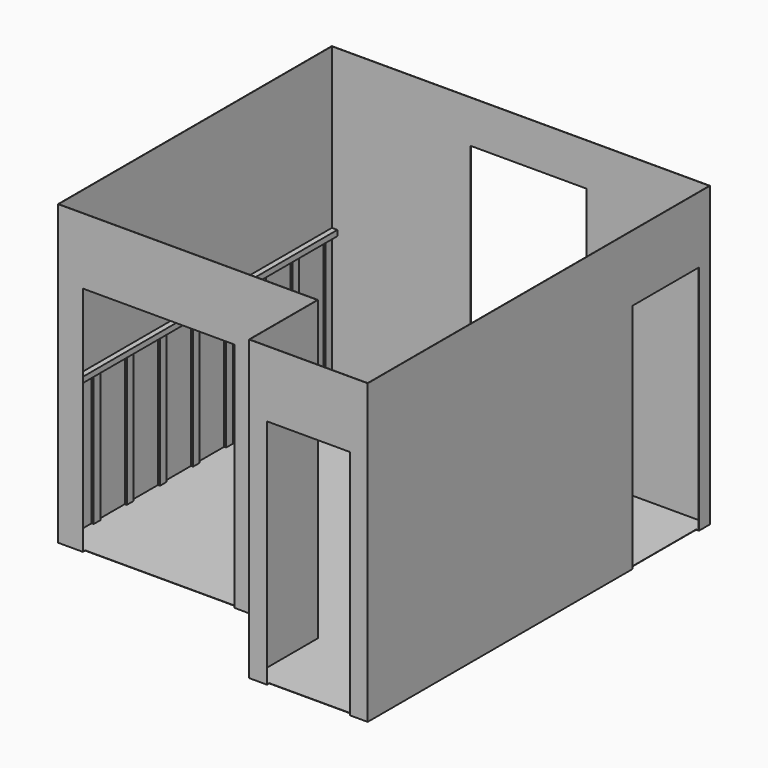
from build123d import *

# Parameters (mm, degrees)
F1_DEPTH  = 2743.2
F2_T      = -2.54
F3_W      = 762
F3_H      = 2133.6
F4_DEPTH  = 25.4
F5_W      = 1397
F5_H      = 2133.6
F6_DEPTH  = 25.4
F7_W      = 762
F7_H      = 2133.6
F8_DEPTH  = 25.4
F9_W      = 1066.8
F9_H      = 1727.2
F10_DEPTH = 25.4
F11_W     = 19.05
F11_H     = 76.2
F12_DEPTH = 1219.2
F14_DEPTH = 50.8


with BuildPart() as f1:
    # F0 (on Top) → F1 (new body)
    with BuildSketch(Plane.XY):
        Polygon((0, 3149.6), (0, 0), (2387.6, 0), (2387.6, -787.4), (3479.8, -787.4), (3479.8, 3149.6), align=None)
    extrude(amount=F1_DEPTH)

    # F2
    f2_openings = [f1.faces().sort_by_distance(p)[0] for p in [
        (1826.758545, 1431.575804, 2743.2),
    ]]
    offset(amount=F2_T, openings=f2_openings, kind=Kind.INTERSECTION)

    # F3 (on face) → F4 (cut)
    with BuildSketch(Plane.XZ.offset(787.4)):
        with Locations((2933.7, 1066.8)):
            Rectangle(F3_W, F3_H)
    extrude(amount=-F4_DEPTH, mode=Mode.SUBTRACT)

    # F5 (on face) → F6 (cut)
    with BuildSketch(Plane.XZ):
        with Locations((927.1, 1066.8)):
            Rectangle(F5_W, F5_H)
    extrude(amount=-F6_DEPTH, mode=Mode.SUBTRACT)

    # F7 (on face) → F8 (cut)
    with BuildSketch(Plane.YZ.offset(3479.8)):
        with Locations((2641.6, 1066.8)):
            Rectangle(F7_W, F7_H)
    extrude(amount=-F8_DEPTH, mode=Mode.SUBTRACT)

    # F9 (on face) → F10 (cut)
    with BuildSketch(Plane.XZ.offset(-3147.06)):
        with Locations((1813.7093782425, 1488.44)):
            Rectangle(F9_W, F9_H)
    extrude(amount=-F10_DEPTH, mode=Mode.SUBTRACT)

    # F11 (on face) → F12 (join)
    with BuildSketch(Plane.XY.offset(2.54)):
        with Locations((12.065, 40.64)):
            Rectangle(F11_W, F11_H)
        with Locations((12.065, 421.64)):
            Rectangle(F11_W, F11_H)
        with Locations((12.065, 802.64)):
            Rectangle(F11_W, F11_H)
        with Locations((12.065, 1183.64)):
            Rectangle(F11_W, F11_H)
        with Locations((12.065, 1564.64)):
            Rectangle(F11_W, F11_H)
        with Locations((12.065, 1945.64)):
            Rectangle(F11_W, F11_H)
        with Locations((12.065, 2326.64)):
            Rectangle(F11_W, F11_H)
        with Locations((12.065, 2707.64)):
            Rectangle(F11_W, F11_H)
        with Locations((12.065, 3088.64)):
            Rectangle(F11_W, F11_H)
    extrude(amount=F12_DEPTH)

    # F13 (on face) → F14 (join)
    with BuildSketch(Plane.YZ.offset(2.54)):
        Polygon((2.54, 1272.54), (2.54, 1221.74), (78.74, 1221.74), (383.54, 1221.74), (459.74, 1221.74), (764.54, 1221.74), (840.74, 1221.74), (1145.54, 1221.74), (1221.74, 1221.74), (1526.54, 1221.74), (1602.74, 1221.74), (1907.54, 1221.74), (1983.74, 1221.74), (2288.54, 1221.74), (2364.74, 1221.74), (2669.54, 1221.74), (2745.74, 1221.74), (3050.54, 1221.74), (3126.74, 1221.74), (3147.06, 1221.74), (3147.06, 1272.54), align=None)
    extrude(amount=F14_DEPTH)


solid = f1.part
